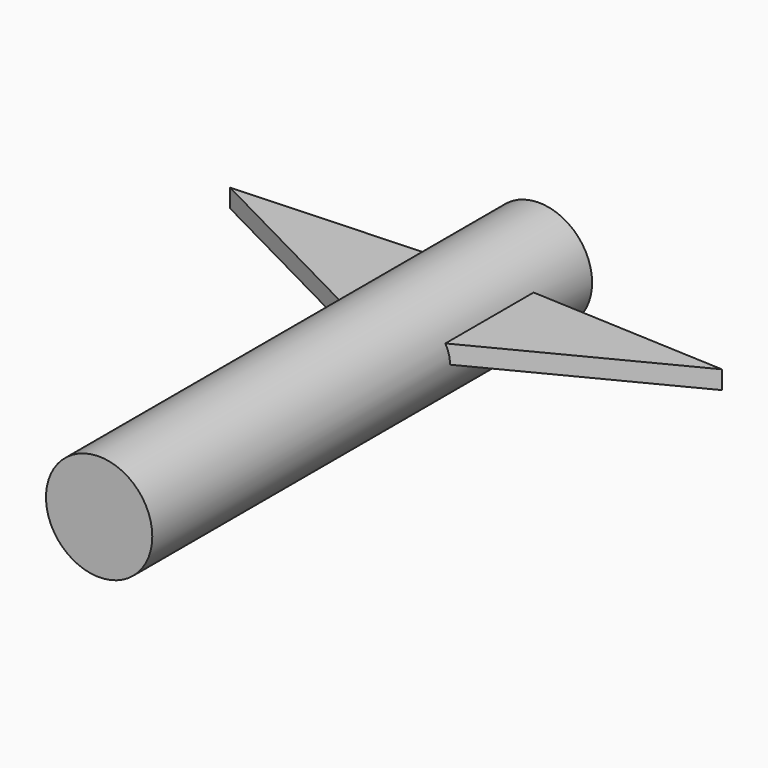
from build123d import *

# Parameters (mm, degrees)
F0_R     = 7.367125
F1_DEPTH = 38.1
F3_DEPTH = 2.54


with BuildPart() as f1:
    # F0 (on Front) → F1 (new body, symmetric)
    with BuildSketch(Plane.XZ):
        Circle(F0_R)
    extrude(amount=F1_DEPTH, both=True)

    # F2 (on Top) → F3 (join)
    with BuildSketch(Plane.XY):
        Polygon((-34.078885, 27.200576), (0, 9.692159), (34.078885, 27.200576), (0, 28.868044), align=None)
    extrude(amount=F3_DEPTH)


solid = f1.part
